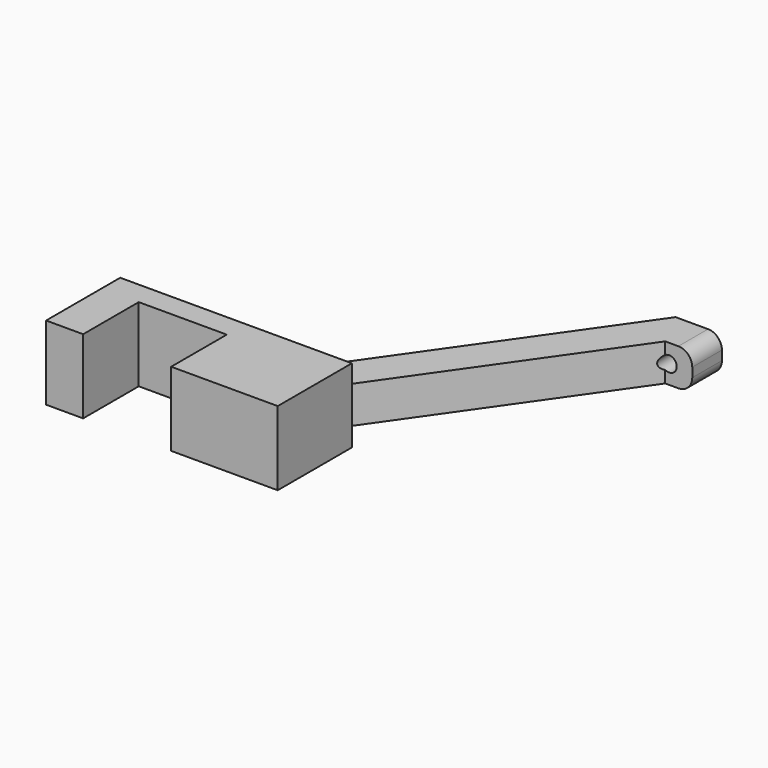
from build123d import *

# Parameters (mm, degrees)
F1_DEPTH       = 8
F3_D           = 3.3
F3_CSINK_D     = 6.72
F3_CSINK_ANGLE = 90
F4_DEPTH       = 12
F5_DEPTH       = 4
F6_R           = 3


with BuildPart() as f1:
    # F0 (on Top) → F1 (new body)
    with BuildSketch(Plane.XY):
        Polygon((44.2503372943, 75.0596572278), (6.9678689315, 21.814774349), (16.7340656416, 21.814774349), (48.4148736987, 67.0596572278), (54.2503372943, 67.0596572278), (54.2503372943, 75.0596572278), align=None)
    extrude(amount=F1_DEPTH)

    # F3 (through all)
    with Locations(Plane(origin=(0, 75.0596572278, 0), x_dir=(-1, 0, 0), z_dir=(0, 1, 0))):
        with Locations((-49.2503372943, 4)):
            CounterSinkHole(F3_D / 2, F3_CSINK_D / 2, counter_sink_angle=F3_CSINK_ANGLE)

    # F0 (on Top) → F4 (join)
    with BuildSketch(Plane.XY):
        Polygon((16.7340656416, 21.814774349), (6.9678689315, 21.814774349), (6.9678689315, 11.814774349), (16.9678689315, 11.814774349), (16.9678689315, 21.814774349), align=None)
        Polygon((6.9678689315, 11.814774349), (6.9678689315, 21.814774349), (-33.0321310685, 21.814774349), (-33.0321310685, 1.814774349), (-25.0321310685, 1.814774349), (-25.0321310685, 16.814774349), (-6.0321310685, 16.814774349), (-6.0321310685, 1.814774349), (16.9678689315, 1.814774349), (16.9678689315, 11.814774349), align=None)
    extrude(amount=F4_DEPTH)

    # F0 (on Top) → F5 (join)
    with BuildSketch(Plane.XY):
        Polygon((6.9678689315, 11.814774349), (6.9678689315, 21.814774349), (-33.0321310685, 21.814774349), (-33.0321310685, 1.814774349), (-25.0321310685, 1.814774349), (-25.0321310685, 16.814774349), (-6.0321310685, 16.814774349), (-6.0321310685, 1.814774349), (16.9678689315, 1.814774349), (16.9678689315, 11.814774349), align=None)
        Polygon((16.7340656416, 21.814774349), (6.9678689315, 21.814774349), (6.9678689315, 11.814774349), (16.9678689315, 11.814774349), (16.9678689315, 21.814774349), align=None)
    extrude(amount=-F5_DEPTH)

    # F6
    f6_edges = [f1.edges().sort_by_distance(p)[0] for p in [
        (54.250337, 71.059657, 0),
        (54.250337, 71.059657, 8),
    ]]
    fillet(f6_edges, radius=F6_R)


solid = f1.part
